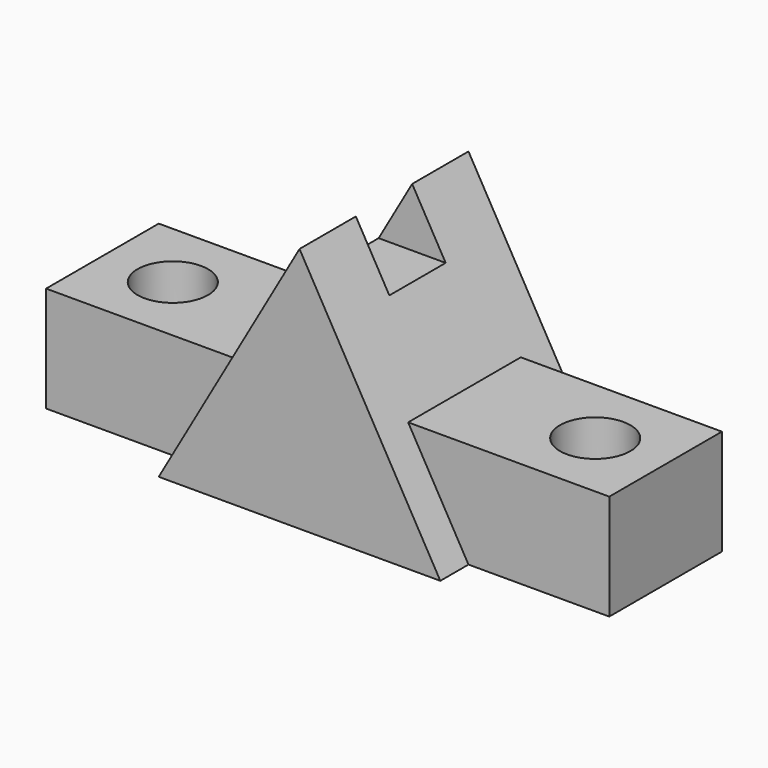
from build123d import *

# Parameters (mm, degrees)
F0_W          = 20
F0_H          = 15
F1_DEPTH      = 80
F3_DEPTH      = 25
F3_DEPTH_BACK = 5
F4_W          = 12.7
F4_H          = 10
F5_DEPTH      = 8.382
F6_R          = 5
F7_DEPTH      = 25.4


with BuildPart() as f1:
    # F0 (on Right) → F1 (new body)
    with BuildSketch(Plane.YZ):
        with Locations((-33.5142107308, -19.1700014472)):
            Rectangle(F0_W, F0_H)
    extrude(amount=F1_DEPTH)

    # F2 (on face) → F3 (join, two sides)
    with BuildSketch(Plane.XZ.offset(43.5142107308)) as f3_sk:
        Polygon((20, -26.6700014472), (40, -26.6700014472), (40, 8.3299985528), align=None)
        Polygon((40, 8.3299985528), (40, -26.6700014472), (60, -26.6700014472), align=None)
    extrude(amount=-F3_DEPTH)
    extrude(f3_sk.sketch, amount=F3_DEPTH_BACK)

    # F4 (on Top) → F5 (cut)
    with BuildSketch(Plane.XY):
        with Locations((40, -33.5142107308)):
            Rectangle(F4_W, F4_H)
    extrude(amount=F5_DEPTH, mode=Mode.SUBTRACT)

    # F6 (on face) → F7 (cut)
    with BuildSketch(Plane.XY.offset(-11.6700014472)):
        with Locations((10, -33.5142107308)):
            Circle(F6_R)
        with Locations((70, -33.5142107308)):
            Circle(F6_R)
    extrude(amount=-F7_DEPTH, mode=Mode.SUBTRACT)


solid = f1.part
